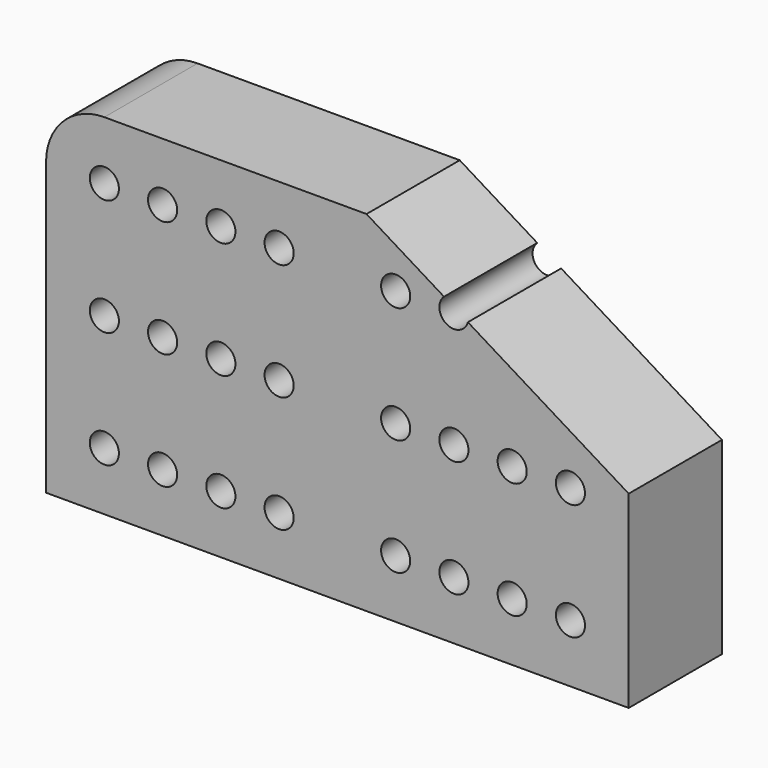
from build123d import *

# Parameters (mm, degrees)
F1_DEPTH = 25.4
F2_R     = 3.175
F3_DEPTH = 25.4
F4_T     = -2.54


with BuildPart() as f1:
    # F0 (on Front) → F1 (new body)
    with BuildSketch(Plane.XZ):
        with BuildLine():
            Line((-63.5, -38.1), (63.5, -38.1))
            Line((63.5, -38.1), (63.5, 3.0236337334))
            Line((63.5, 3.0236337334), (6.35, 38.1))
            Line((6.35, 38.1), (-50.8, 38.1))
            ThreePointArc((-50.8, 38.1), (-59.7802561211, 34.3802561211), (-63.5, 25.4))
            Line((-63.5, 25.4), (-63.5, -38.1))
        make_face()
    extrude(amount=F1_DEPTH)

    # F2 (on face) → F3 (cut)
    with BuildSketch(Plane.XZ.offset(25.4)):
        with Locations((-50.8, 25.4)):
            Circle(F2_R)
        with Locations((-50.8, 0)):
            Circle(F2_R)
        with Locations((-50.8, -25.4)):
            Circle(F2_R)
        with Locations((-38.1, 25.4)):
            Circle(F2_R)
        with Locations((-38.1, 0)):
            Circle(F2_R)
        with Locations((-38.1, -25.4)):
            Circle(F2_R)
        with Locations((-25.4, 25.4)):
            Circle(F2_R)
        with Locations((-25.4, 0)):
            Circle(F2_R)
        with Locations((-25.4, -25.4)):
            Circle(F2_R)
        with Locations((-12.7, 25.4)):
            Circle(F2_R)
        with Locations((-12.7, 0)):
            Circle(F2_R)
        with Locations((-12.7, -25.4)):
            Circle(F2_R)
        with Locations((25.4, 0)):
            Circle(F2_R)
        with Locations((50.8, -25.4)):
            Circle(F2_R)
        with Locations((38.1, -25.4)):
            Circle(F2_R)
        with Locations((12.7, 0)):
            Circle(F2_R)
        with Locations((50.8, 25.4)):
            Circle(F2_R)
        with Locations((38.1, 25.4)):
            Circle(F2_R)
        with Locations((25.4, 25.4)):
            Circle(F2_R)
        with Locations((12.7, 25.4)):
            Circle(F2_R)
        with Locations((38.1, 0)):
            Circle(F2_R)
        with Locations((50.8, 0)):
            Circle(F2_R)
        with Locations((25.4, -25.4)):
            Circle(F2_R)
        with Locations((12.7, -25.4)):
            Circle(F2_R)
    extrude(amount=-F3_DEPTH, mode=Mode.SUBTRACT)

    # F4
    f4_openings = [f1.faces().sort_by_distance(p)[0] for p in [
        (-4.94859, 0, -3.243441),
    ]]
    offset(amount=F4_T, openings=f4_openings, kind=Kind.INTERSECTION)


solid = f1.part
